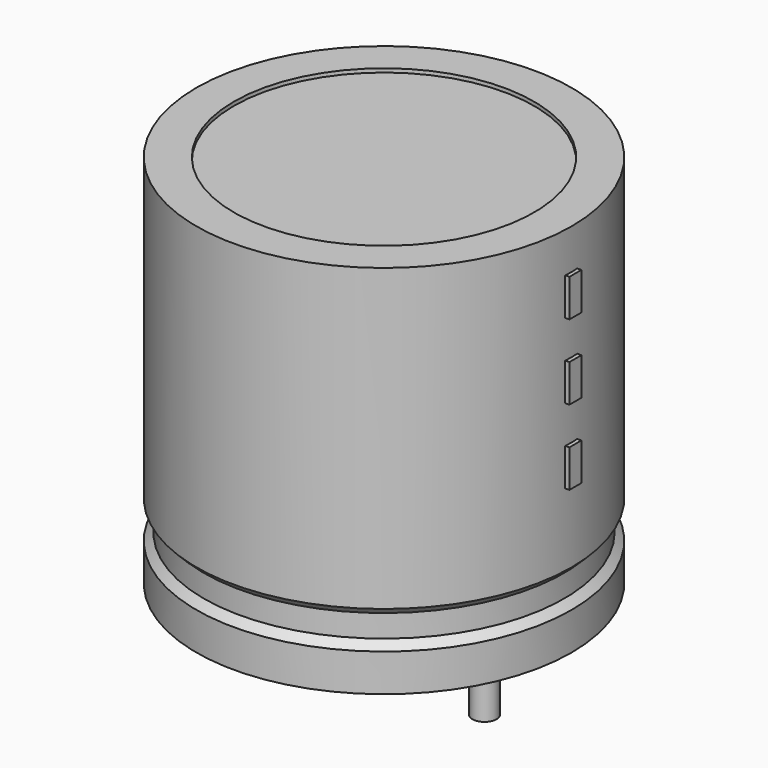
from build123d import *

# Parameters (mm, degrees)
SKETCH002_W  = 6.44
SKETCH002_H  = 13.72
SKETCH003_R  = 0.45
PAD_DEPTH    = 4.4
SKETCH004_W  = 0.56
SKETCH004_H  = 1.4
PAD001_DEPTH = 7.14


with BuildPart() as revolution:
    # Sketch → Revolution (revolve)
    with BuildSketch(Plane.XZ):
        Polygon((-3.25, 0.1), (-3.25, 1.5), (-2.97, 1.78), (-2.97, 2.62), (-3.25, 2.9), (-3.25, 14.1), (-1.85, 14.1), (-1.85, 0.1), align=None)
    revolve(axis=Axis((3.75, 0, 7.548619), (0, 0, -1)))


with BuildPart() as revolution001:
    # Sketch002 → Revolution001 (revolve)
    with BuildSketch(Plane.XZ):
        with Locations((0.53, 7.1)):
            Rectangle(SKETCH002_W, SKETCH002_H)
    revolve(axis=Axis((3.75, 0, 4.680116), (0, 0, -1)))


with BuildPart() as pad:
    # Sketch003 → Pad (new body)
    with BuildSketch(Plane.XY.offset(1.4)):
        Circle(SKETCH003_R)
        with Locations((7.5, 0)):
            Circle(SKETCH003_R)
    extrude(amount=-PAD_DEPTH)


with BuildPart() as pad001:
    # Sketch004 → Pad001 (new body)
    with BuildSketch(Plane.YZ.offset(3.75)):
        with Locations((0, 6.3)):
            Rectangle(SKETCH004_W, SKETCH004_H)
        with Locations((0, 9.1)):
            Rectangle(SKETCH004_W, SKETCH004_H)
        with Locations((0, 11.9)):
            Rectangle(SKETCH004_W, SKETCH004_H)
    extrude(amount=PAD001_DEPTH)


solid = Compound([revolution.part, revolution001.part, pad.part, pad001.part])
